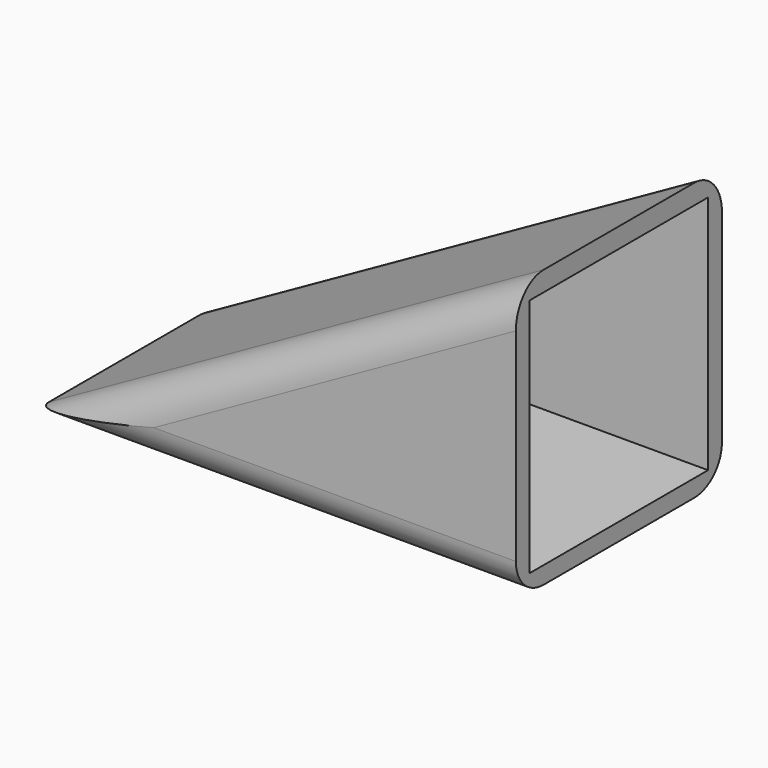
from build123d import *

# Parameters (mm, degrees)
F0_W     = 71.3519603014
F0_H     = 37.1488952078
F1_DEPTH = 40
F3_DEPTH = 25
F4_DEPTH = 12.1498952078
F5_T     = -2.5
F6_R     = 5


with BuildPart() as f1:
    # F0 (on Top) → F1 (new body)
    with BuildSketch(Plane.XY):
        with Locations((-16.4616554976, 14.1063730698)):
            Rectangle(F0_W, F0_H)
    extrude(amount=F1_DEPTH)

    # F2 (on face) → F3 (cut)
    with BuildSketch(Plane.XZ.offset(4.4680745341)):
        Polygon((-52.1376356483, 40), (-52.1376356483, 0), (19.2143246531, 40), align=None)
    extrude(amount=-F3_DEPTH, mode=Mode.SUBTRACT)

    # F4 (cut, through all): a face of the model
    f4_faces = [f1.faces().sort_by_distance(p)[0] for p in [
        (-28.3536488811, 20.5319254659, 26.6666666667),
    ]]
    extrude(f4_faces, amount=-F4_DEPTH, mode=Mode.SUBTRACT)

    # F5
    f5_openings = [f1.faces().sort_by_distance(p)[0] for p in [
        (19.214325, 14.106373, 20),
    ]]
    offset(amount=F5_T, openings=f5_openings)

    # F6
    f6_edges = [f1.edges().sort_by_distance(p)[0] for p in [
        (-16.461655, 32.680821, 20),
        (-16.461655, 32.680821, 0),
        (-16.461655, -4.468075, 20),
        (-16.461655, -4.468075, 0),
    ]]
    fillet(f6_edges, radius=F6_R)


solid = f1.part
